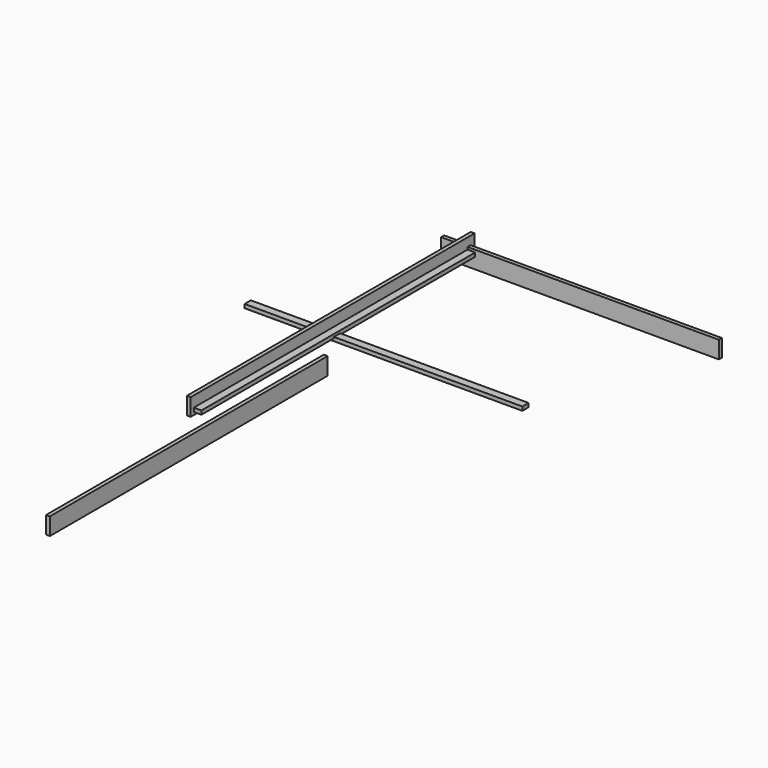
from build123d import *

# Parameters (mm, degrees)
F1_W     = 2044
F1_H     = 100
F1_W_2   = 2000
F1_H_2   = 22
F3_DEPTH = 22
F4_DEPTH = 66
F2_W     = 1600
F2_H     = 100
F5_DEPTH = 22
F6_W     = 1600
F6_H     = 45
F7_DEPTH = 22
F8_W     = 2000
F8_H     = 100
F9_DEPTH = 22


with BuildPart() as f3:
    # F1 (on Right) → F3 (new body)
    with BuildSketch(Plane.YZ):
        with Locations((-993.4160848077, 48.9403463067)):
            Rectangle(F1_W, F1_H)
        with Locations((-993.4160848077, 25.9403463067)):
            Rectangle(F1_W_2, F1_H_2, mode=Mode.SUBTRACT)
    extrude(amount=F3_DEPTH)

    # F1 (on Right) → F4 (join)
    with BuildSketch(Plane.YZ):
        with Locations((-993.4160848077, 25.9403463067)):
            Rectangle(F1_W_2, F1_H_2)
    extrude(amount=F4_DEPTH)


with BuildPart() as f5:
    # F2 (on Front) → F5 (new body)
    with BuildSketch(Plane.XZ):
        with Locations((669.6090708971, 0.5605035093)):
            Rectangle(F2_W, F2_H)
    extrude(amount=F5_DEPTH)


with BuildPart() as f7:
    # F6 (on Top) → F7 (new body)
    with BuildSketch(Plane.XY):
        with Locations((351.4434993267, -1016.8831119705)):
            Rectangle(F6_W, F6_H)
    extrude(amount=F7_DEPTH)


with BuildPart() as f9:
    # F8 (on Right) → F9 (new body)
    with BuildSketch(Plane.YZ):
        with Locations((-2029.6325683594, -143.3295997611)):
            Rectangle(F8_W, F8_H)
    extrude(amount=F9_DEPTH)


solid = Compound([f3.part, f5.part, f7.part, f9.part])
